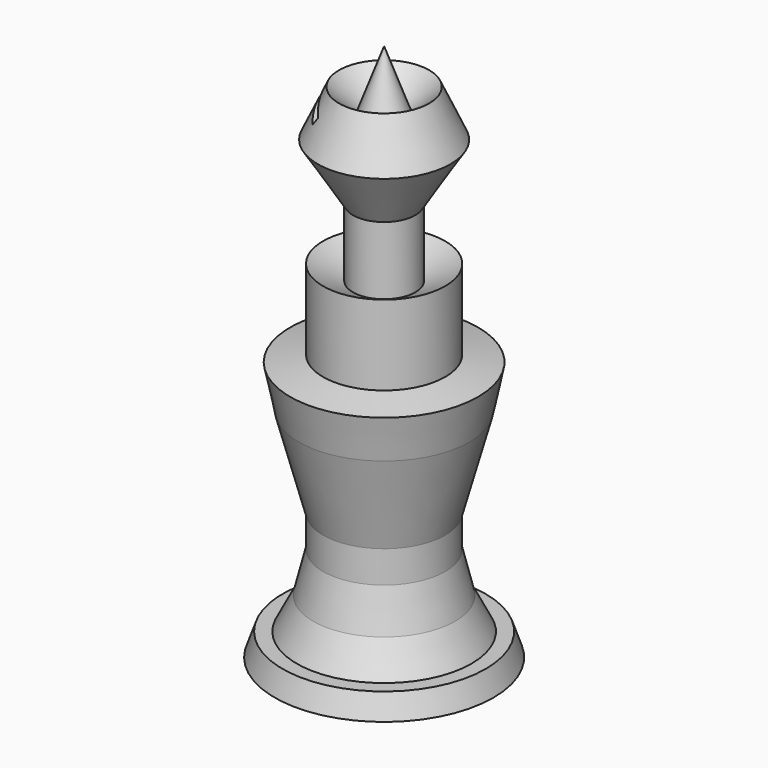
from build123d import *

# Parameters (mm, degrees)
F3_DEPTH = 25
F4_DEPTH = 25


with BuildPart() as f1:
    # F0 (on Front) → F1 (revolve)
    with BuildSketch(Plane.XZ):
        Polygon((0, 27.977053), (0, -22.563635), (16.162515, -22.563635), (15.007145, -19.202555), (12.906471, -19.202555), (10.490696, -14.476041), (9.020226, -8.48912), (9.020226, -3.762604), (12.596551, 9.510701), (13.896568, 15.825069), (9.020226, 16.829022), (9.020226, 28.639521), (4.610734, 26.410921), (4.610734, 36.439623), (9.813699, 44.771921), (6.656515, 51.64344), (3.127897, 48.393397), (0, 56.936365), (0, 47.673344), (0, 47.410701), (0, 32.768778), align=None)
    revolve(axis=Axis((0, 0, 42.456709), (0, 0, -1)))

    # F2 (on Front) → F3 (cut)
    with BuildSketch(Plane.XZ):
        Polygon((-4.498249, 48.772931), (-8.376098, 51.58437), (-9.137458, 50.469015), (-5.290595, 47.68004), align=None)
    extrude(amount=-F3_DEPTH, mode=Mode.SUBTRACT)

    # F2 (on Front) → F4 (cut)
    with BuildSketch(Plane.XZ):
        Polygon((-4.498249, 48.772931), (-8.376098, 51.58437), (-9.137458, 50.469015), (-5.290595, 47.68004), align=None)
    extrude(amount=F4_DEPTH, mode=Mode.SUBTRACT)


solid = f1.part
